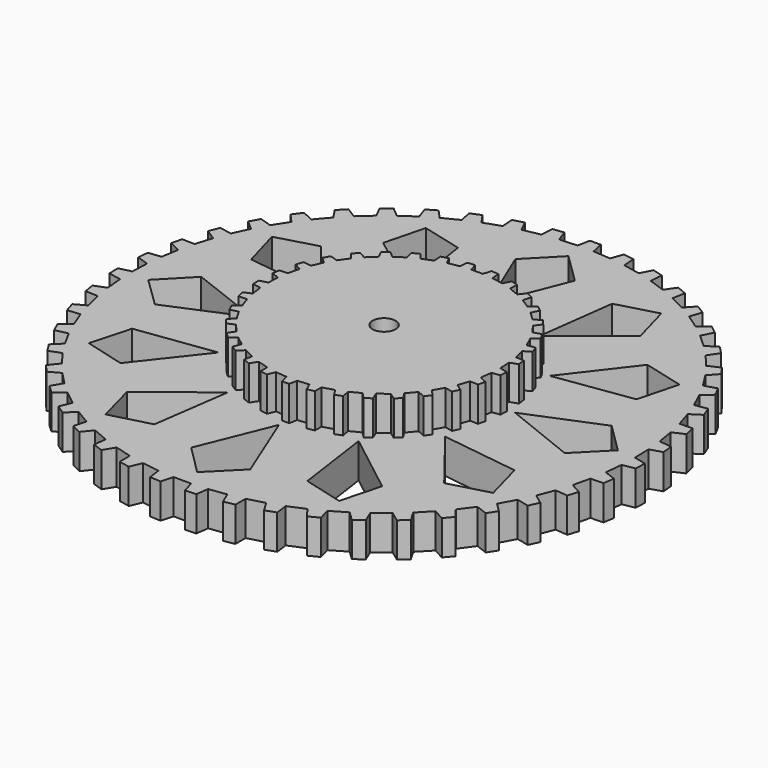
from build123d import *

# Parameters (mm, degrees)
F0_R     = 0.722683
F1_DEPTH = 6
F2_DEPTH = 12
F5_D     = 4


with BuildPart() as f1:
    # F0 (on Top) → F1 (new body)
    with BuildSketch(Plane.XY):
        Polygon((45.721004, -0.672902), (43.596177, -0.152391), (43.503008, 2.882027), (45.591662, 3.53778), (45.414089, 5.424917), (43.228262, 5.660045), (42.73163, 8.656739), (44.722378, 9.58459), (44.281858, 11.429266), (42.093254, 11.374037), (41.197981, 14.275087), (43.03848, 15.45893), (42.359215, 17.229429), (40.198753, 16.879429), (38.924283, 19.634988), (40.589383, 21.05665), (39.682311, 22.721708), (37.585841, 22.083461), (35.952651, 24.643834), (37.418604, 26.278554), (36.298323, 27.808154), (34.297821, 26.891953), (32.339715, 29.213172), (33.577214, 31.027833), (32.25813, 32.389055), (30.403614, 31.22429), (28.15457, 33.264088), (29.136099, 35.220363), (27.650143, 36.396885), (25.967558, 34.996174), (23.468637, 36.720293), (24.180717, 38.790473), (22.552758, 39.761839), (21.072853, 38.149534), (18.366709, 39.526496), (18.795042, 41.674147), (17.052599, 42.422982), (15.797744, 40.619), (12.930219, 41.619714), (13.07093, 43.81508), (11.240292, 44.311863), (10.239169, 42.362499), (7.263618, 42.968448), (7.10762, 45.150507), (5.228643, 45.402257), (4.499295, 43.339269), (1.470475, 43.545071), (1.024163, 45.687877), (-0.87036, 45.69692), (-1.320505, 43.547288), (-4.352038, 43.351521), (-5.075766, 45.425511), (-6.954614, 45.171909), (-7.119612, 42.989054), (-10.095981, 42.390555), (-11.088233, 44.340845), (-12.918376, 43.844299), (-12.787914, 41.659958), (-15.658131, 40.670354), (-16.905255, 42.469943), (-18.653986, 41.7359), (-18.228624, 39.582759), (-20.94013, 38.214884), (-22.421499, 39.840904), (-24.052257, 38.873026), (-23.34317, 36.794406), (-25.848443, 35.077952), (-27.527884, 36.486953), (-29.014422, 35.310862), (-28.039847, 33.350043), (-30.293435, 31.315606), (-32.142784, 32.486723), (-33.462191, 31.126234), (-32.235715, 29.312929), (-34.200668, 26.998579), (-36.189909, 27.913488), (-37.319772, 26.391596), (-35.862453, 24.757372), (-37.501996, 22.201046), (-39.598961, 22.845128), (-40.519576, 21.187305), (-38.84821, 19.755588), (-40.13295, 17.003689), (-42.300497, 17.364326), (-42.980451, 15.593762), (-41.143849, 14.401501), (-42.04556, 11.502281), (-44.232657, 11.566725), (-44.672596, 9.722157), (-42.693044, 8.78916), (-43.200399, 5.795997), (-45.377075, 5.565175), (-45.572605, 3.679567), (-43.480248, 3.019487), (-43.583364, -0.016633), (-45.721003, -0.531955), (-45.653522, -2.425401), (-43.498034, -2.806923), (-43.199796, -5.828143), (-45.239637, -6.619352), (-44.930074, -8.489716), (-42.744096, -8.579762), (-42.049608, -11.535353), (-43.965727, -12.594741), (-43.412854, -14.409122), (-41.225347, -14.202438), (-40.137774, -17.038161), (-41.905129, -18.34846), (-41.103025, -20.067132), (-38.967001, -19.572373), (-37.510371, -22.237219), (-39.077158, -23.765011), (-38.056225, -25.362373), (-36.008331, -24.588087), (-34.209066, -27.033395), (-35.558273, -28.757428), (-34.336728, -30.206565), (-32.410812, -29.166361), (-30.303727, -31.352296), (-31.411907, -33.240983), (-30.010937, -34.517649), (-28.236454, -33.227504), (-25.856841, -35.114189), (-26.710191, -37.139496), (-25.149907, -38.216691), (-23.559134, -36.699428), (-20.95025, -38.254006), (-21.525667, -40.371254), (-19.833457, -41.226801), (-18.462632, -39.519411), (-15.669457, -40.70939), (-15.954021, -42.879284), (-14.163455, -43.50375), (-13.035638, -41.628197), (-10.108749, -42.434522), (-10.097833, -44.623622), (-8.24056, -45.007061), (-7.374248, -42.991615), (-4.363794, -43.396608), (-4.062478, -45.576944), (-2.170668, -45.696209), (-1.578456, -43.587186), (1.457793, -43.588995), (2.042081, -45.69692), (3.932771, -45.575006), (4.240827, -43.40929), (7.251216, -43.015537), (8.112382, -45.028442), (9.973121, -44.662185), (9.987871, -42.463633), (12.91913, -41.667902), (14.04348, -43.55618), (15.834499, -42.931778), (15.55887, -40.759624), (18.354974, -39.576169), (19.718026, -41.288209), (21.410494, -40.433417), (20.845067, -38.318688), (23.458366, -36.773433), (25.03945, -38.287811), (26.60419, -37.217764), (25.760896, -35.198249), (28.145505, -33.318024), (29.915788, -34.609978), (31.326469, -33.343798), (30.216631, -31.446282), (32.331102, -29.26657), (34.263456, -30.319908), (35.48584, -28.870944), (34.13855, -27.139181), (35.946191, -24.69889), (37.991867, -25.481487), (39.013403, -23.884577), (37.45187, -22.349809), (38.91694, -19.690712), (41.047646, -20.191995), (41.849987, -18.474055), (40.097424, -17.163175), (41.195053, -14.332469), (43.37442, -14.542318), (43.943378, -12.733019), (42.024309, -11.667451), (42.730273, -8.713303), (44.930031, -8.632106), (45.238755, -6.760838), (43.197945, -5.961038), (43.502255, -2.939646), (45.657485, -2.566413), align=None)
        Polygon((-22.127762, -28.015769), (-11.38024, -19.665681), (-13.27812, -33.142745), (-20.266429, -35.004078), align=None, mode=Mode.SUBTRACT)
        Polygon((-5.126625, -35.358621), (-0.014683, -22.745086), (5.100889, -35.357148), (-0.012132, -40.471641), align=None, mode=Mode.SUBTRACT)
        Polygon((-33.155414, -13.138033), (-19.66972, -11.302478), (-28.069406, -22.011282), (-35.049035, -20.117662), align=None, mode=Mode.SUBTRACT)
        Polygon((-35.33454, 4.569972), (-22.647064, -0.35559), (-35.182395, -5.656411), (-40.371659, -0.619292), align=None, mode=Mode.SUBTRACT)
        Polygon((13.264688, -33.187038), (11.362929, -19.710521), (22.112854, -28.057516), (20.253532, -35.04636), align=None, mode=Mode.SUBTRACT)
        Polygon((20.093765, 1.943242), (20.189433, -0.045506), (21.577228, -0.392316), (21.522248, -1.659032), (20.107275, -1.877298), (19.828398, -3.848875), (21.121985, -4.451072), (20.826172, -5.685254), (19.401408, -5.63237), (18.751143, -7.514646), (19.904431, -8.35162), (19.378027, -9.506161), (17.991303, -9.183905), (16.995066, -10.908406), (17.968058, -11.948281), (17.232477, -12.981431), (15.931049, -12.402311), (14.628745, -13.909067), (15.388117, -15.113204), (14.471065, -15.989014), (13.301544, -15.174938), (11.738915, -16.409539), (12.258283, -17.735953), (11.191851, -18.422947), (10.196729, -17.402137), (8.428521, -18.318177), (8.68753, -19.720835), (7.509156, -20.192207), (6.725897, -18.99947), (4.815521, -19.561041), (4.803364, -20.99156), (3.55685, -21.228551), (3.014553, -19.905849), (1.032475, -20.094638), (0.751086, -21.498337), (-0.516291, -21.503228), (-0.801115, -20.097876), (-2.783691, -19.913306), (-3.323415, -21.234951), (-4.570285, -20.998951), (-4.585495, -19.572208), (-6.496812, -19.013164), (-7.277727, -20.205547), (-8.456348, -19.735112), (-8.200791, -18.334762), (-9.97052, -17.421317), (-10.963098, -18.442757), (-12.030165, -17.757074), (-11.513488, -16.429779), (-13.079965, -15.199962), (-14.246932, -16.015522), (-15.165178, -15.140995), (-14.407428, -13.93436), (-15.714758, -12.432022), (-17.014777, -13.013573), (-17.751694, -11.981234), (-16.779583, -10.938754), (-17.779127, -9.216339), (-19.167218, -9.541889), (-19.694666, -8.38764), (-18.541229, -7.54826), (-19.193959, -5.667037), (-20.622095, -5.723031), (-20.91877, -4.489128), (-19.624265, -3.884531), (-19.906679, -1.913575), (-21.323235, -1.698378), (-21.384018, -0.432438), (-19.994754, -0.082104), (-19.904271, 1.906919), (-21.250994, 2.383084), (-21.075248, 3.639642), (-19.649497, 3.722898), (-19.183, 5.658805), (-20.411894, 6.381805), (-19.998655, 7.581778), (-18.587092, 7.393295), (-17.75935, 9.204667), (-18.827072, 10.147592), (-18.192915, 11.246271), (-16.842753, 10.793278), (-15.688201, 12.416048), (-16.558147, 13.543189), (-15.728114, 14.50185), (-14.487062, 13.802105), (-13.048289, 15.179136), (-13.690649, 16.449897), (-12.694611, 17.234985), (-11.607223, 16.313611), (-9.934436, 17.394203), (-10.325658, 18.764697), (-9.1982, 19.34685), (-8.304715, 18.235286), (-6.45697, 18.977668), (-6.581024, 20.400353), (-5.362732, 20.756155), (-4.697036, 19.492773), (-2.741756, 19.868786), (-2.593871, 21.294965), (-1.331277, 21.412183), (-0.916364, 20.042076), (1.074686, 20.044933), (1.486482, 21.413685), (2.749632, 21.298396), (2.900651, 19.876603), (4.856668, 19.503625), (5.520017, 20.766252), (6.738541, 20.4113), (6.617687, 18.991607), (8.466606, 18.251645), (9.357642, 19.363367), (10.485511, 18.782343), (10.097365, 17.412353), (11.772866, 16.33572), (12.857603, 17.258176), (13.854585, 16.474465), (13.214423, 15.20181), (14.657974, 13.829794), (15.896755, 14.531394), (16.728146, 13.573825), (15.859502, 12.444078), (17.018499, 10.824594), (18.368426, 11.28046), (19.0038, 10.182301), (17.936445, 9.236876), (18.766681, 7.42685), (20.180911, 7.618623), (20.59499, 6.418874), (19.365571, 5.693573), (19.834767, 3.758477), (21.264732, 3.678316), (21.441696, 2.422215), align=None, mode=Mode.SUBTRACT)
        Polygon((28.088089, -22.086457), (19.685321, -11.380071), (33.171543, -13.211743), (35.067173, -20.190827), align=None, mode=Mode.SUBTRACT)
        Polygon((-28.242951, 21.677441), (-19.735433, 11.0541), (-33.238995, 12.753227), (-35.203079, 19.713356), align=None, mode=Mode.SUBTRACT)
        Polygon((-13.52929, 32.923078), (-11.495261, 19.465889), (-22.326649, 27.706899), (-20.536059, 34.713667), align=None, mode=Mode.SUBTRACT)
        Polygon((4.839806, 35.275189), (-0.148002, 22.612054), (-5.3872, 35.173265), (-0.324658, 40.33773), align=None, mode=Mode.SUBTRACT)
        Polygon((35.347361, -5.049464), (22.708874, 0.000472), (35.295663, 5.177919), (40.435204, 0.090077), align=None, mode=Mode.SUBTRACT)
        Polygon((33.085487, 13.330963), (19.618472, 11.363044), (27.912574, 22.153831), (34.910465, 20.328853), align=None, mode=Mode.SUBTRACT)
        Polygon((21.912243, 28.099671), (11.247251, 19.644427), (13.012673, 33.139481), (19.982363, 35.069362), align=None, mode=Mode.SUBTRACT)
        Polygon((21.577228, -0.392316), (20.189433, -0.045506), (20.093765, 1.943242), (21.441696, 2.422215), (21.264732, 3.678316), (19.834767, 3.758477), (19.365571, 5.693573), (20.59499, 6.418874), (20.180911, 7.618623), (18.766681, 7.42685), (17.936445, 9.236876), (19.0038, 10.182301), (18.368426, 11.28046), (17.018499, 10.824594), (15.859502, 12.444078), (16.728146, 13.573825), (15.896755, 14.531394), (14.657974, 13.829794), (13.214423, 15.20181), (13.854585, 16.474465), (12.857603, 17.258176), (11.772866, 16.33572), (10.097365, 17.412353), (10.485511, 18.782343), (9.357642, 19.363367), (8.466606, 18.251645), (6.617687, 18.991607), (6.738541, 20.4113), (5.520017, 20.766252), (4.856668, 19.503625), (2.900651, 19.876603), (2.749632, 21.298396), (1.486482, 21.413685), (1.074686, 20.044933), (-0.916364, 20.042076), (-1.331277, 21.412183), (-2.593871, 21.294965), (-2.741756, 19.868786), (-4.697036, 19.492773), (-5.362732, 20.756155), (-6.581024, 20.400353), (-6.45697, 18.977668), (-8.304715, 18.235286), (-9.1982, 19.34685), (-10.325658, 18.764697), (-9.934436, 17.394203), (-11.607223, 16.313611), (-12.694611, 17.234985), (-13.690649, 16.449897), (-13.048289, 15.179136), (-14.487062, 13.802105), (-15.728114, 14.50185), (-16.558147, 13.543189), (-15.688201, 12.416048), (-16.842753, 10.793278), (-18.192915, 11.246271), (-18.827072, 10.147592), (-17.75935, 9.204667), (-18.587092, 7.393295), (-19.998655, 7.581778), (-20.411894, 6.381805), (-19.183, 5.658805), (-19.649497, 3.722898), (-21.075248, 3.639642), (-21.250994, 2.383084), (-19.904271, 1.906919), (-19.994754, -0.082104), (-21.384018, -0.432438), (-21.323235, -1.698378), (-19.906679, -1.913575), (-19.624265, -3.884531), (-20.91877, -4.489128), (-20.622095, -5.723031), (-19.193959, -5.667037), (-18.541229, -7.54826), (-19.694666, -8.38764), (-19.167218, -9.541889), (-17.779127, -9.216339), (-16.779583, -10.938754), (-17.751694, -11.981234), (-17.014777, -13.013573), (-15.714758, -12.432022), (-14.407428, -13.93436), (-15.165178, -15.140995), (-14.246932, -16.015522), (-13.079965, -15.199962), (-11.513488, -16.429779), (-12.030165, -17.757074), (-10.963098, -18.442757), (-9.97052, -17.421317), (-8.200791, -18.334762), (-8.456348, -19.735112), (-7.277727, -20.205547), (-6.496812, -19.013164), (-4.585495, -19.572208), (-4.570285, -20.998951), (-3.323415, -21.234951), (-2.783691, -19.913306), (-0.801115, -20.097876), (-0.516291, -21.503228), (0.751086, -21.498337), (1.032475, -20.094638), (3.014553, -19.905849), (3.55685, -21.228551), (4.803364, -20.99156), (4.815521, -19.561041), (6.725897, -18.99947), (7.509156, -20.192207), (8.68753, -19.720835), (8.428521, -18.318177), (10.196729, -17.402137), (11.191851, -18.422947), (12.258283, -17.735953), (11.738915, -16.409539), (13.301544, -15.174938), (14.471065, -15.989014), (15.388117, -15.113204), (14.628745, -13.909067), (15.931049, -12.402311), (17.232477, -12.981431), (17.968058, -11.948281), (16.995066, -10.908406), (17.991303, -9.183905), (19.378027, -9.506161), (19.904431, -8.35162), (18.751143, -7.514646), (19.401408, -5.63237), (20.826172, -5.685254), (21.121985, -4.451072), (19.828398, -3.848875), (20.107275, -1.877298), (21.522248, -1.659032), align=None)
        Circle(F0_R, mode=Mode.SUBTRACT)
    extrude(amount=F1_DEPTH)

    # F0 (on Top) → F2 (join)
    with BuildSketch(Plane.XY):
        Polygon((21.577228, -0.392316), (20.189433, -0.045506), (20.093765, 1.943242), (21.441696, 2.422215), (21.264732, 3.678316), (19.834767, 3.758477), (19.365571, 5.693573), (20.59499, 6.418874), (20.180911, 7.618623), (18.766681, 7.42685), (17.936445, 9.236876), (19.0038, 10.182301), (18.368426, 11.28046), (17.018499, 10.824594), (15.859502, 12.444078), (16.728146, 13.573825), (15.896755, 14.531394), (14.657974, 13.829794), (13.214423, 15.20181), (13.854585, 16.474465), (12.857603, 17.258176), (11.772866, 16.33572), (10.097365, 17.412353), (10.485511, 18.782343), (9.357642, 19.363367), (8.466606, 18.251645), (6.617687, 18.991607), (6.738541, 20.4113), (5.520017, 20.766252), (4.856668, 19.503625), (2.900651, 19.876603), (2.749632, 21.298396), (1.486482, 21.413685), (1.074686, 20.044933), (-0.916364, 20.042076), (-1.331277, 21.412183), (-2.593871, 21.294965), (-2.741756, 19.868786), (-4.697036, 19.492773), (-5.362732, 20.756155), (-6.581024, 20.400353), (-6.45697, 18.977668), (-8.304715, 18.235286), (-9.1982, 19.34685), (-10.325658, 18.764697), (-9.934436, 17.394203), (-11.607223, 16.313611), (-12.694611, 17.234985), (-13.690649, 16.449897), (-13.048289, 15.179136), (-14.487062, 13.802105), (-15.728114, 14.50185), (-16.558147, 13.543189), (-15.688201, 12.416048), (-16.842753, 10.793278), (-18.192915, 11.246271), (-18.827072, 10.147592), (-17.75935, 9.204667), (-18.587092, 7.393295), (-19.998655, 7.581778), (-20.411894, 6.381805), (-19.183, 5.658805), (-19.649497, 3.722898), (-21.075248, 3.639642), (-21.250994, 2.383084), (-19.904271, 1.906919), (-19.994754, -0.082104), (-21.384018, -0.432438), (-21.323235, -1.698378), (-19.906679, -1.913575), (-19.624265, -3.884531), (-20.91877, -4.489128), (-20.622095, -5.723031), (-19.193959, -5.667037), (-18.541229, -7.54826), (-19.694666, -8.38764), (-19.167218, -9.541889), (-17.779127, -9.216339), (-16.779583, -10.938754), (-17.751694, -11.981234), (-17.014777, -13.013573), (-15.714758, -12.432022), (-14.407428, -13.93436), (-15.165178, -15.140995), (-14.246932, -16.015522), (-13.079965, -15.199962), (-11.513488, -16.429779), (-12.030165, -17.757074), (-10.963098, -18.442757), (-9.97052, -17.421317), (-8.200791, -18.334762), (-8.456348, -19.735112), (-7.277727, -20.205547), (-6.496812, -19.013164), (-4.585495, -19.572208), (-4.570285, -20.998951), (-3.323415, -21.234951), (-2.783691, -19.913306), (-0.801115, -20.097876), (-0.516291, -21.503228), (0.751086, -21.498337), (1.032475, -20.094638), (3.014553, -19.905849), (3.55685, -21.228551), (4.803364, -20.99156), (4.815521, -19.561041), (6.725897, -18.99947), (7.509156, -20.192207), (8.68753, -19.720835), (8.428521, -18.318177), (10.196729, -17.402137), (11.191851, -18.422947), (12.258283, -17.735953), (11.738915, -16.409539), (13.301544, -15.174938), (14.471065, -15.989014), (15.388117, -15.113204), (14.628745, -13.909067), (15.931049, -12.402311), (17.232477, -12.981431), (17.968058, -11.948281), (16.995066, -10.908406), (17.991303, -9.183905), (19.378027, -9.506161), (19.904431, -8.35162), (18.751143, -7.514646), (19.401408, -5.63237), (20.826172, -5.685254), (21.121985, -4.451072), (19.828398, -3.848875), (20.107275, -1.877298), (21.522248, -1.659032), align=None)
        Circle(F0_R, mode=Mode.SUBTRACT)
    extrude(amount=F2_DEPTH)

    # F5 (through all)
    with Locations(Plane(origin=(0, 0, 0), x_dir=(1, 0, 0), z_dir=(0, 0, -1))):
        with Locations((0, 0)):
            Hole(F5_D / 2)


solid = f1.part
